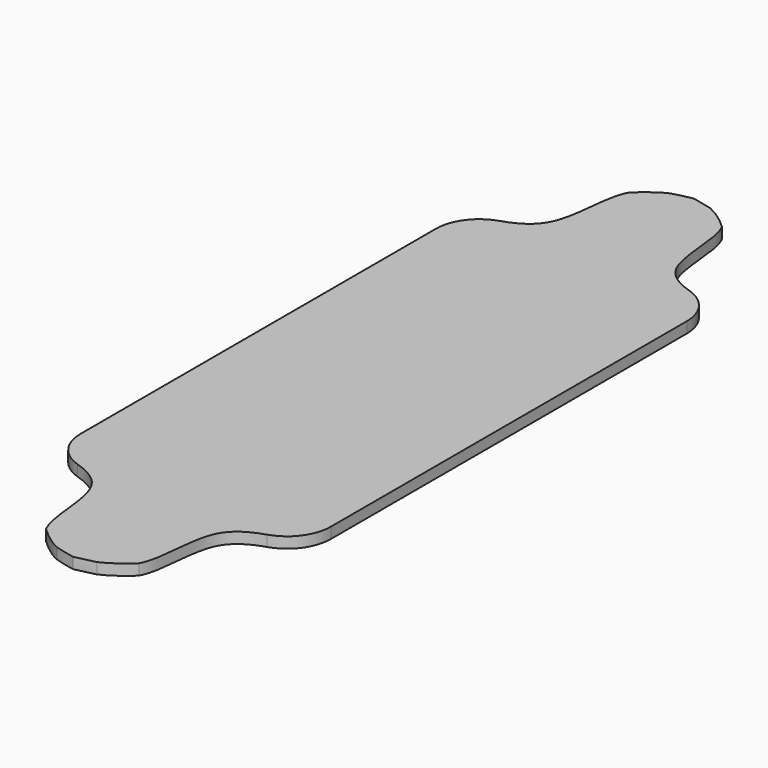
from build123d import *

# Parameters (mm, degrees)
F1_DEPTH = 12.7


with BuildPart() as f1:
    # F0 (on Top) → F1 (new body)
    with BuildSketch(Plane.XY):
        with BuildLine():
            ThreePointArc((-110.4837637806, 316.7394248911), (-136.2043355462, 298.3336731661), (-146.05, 268.2773526998))
            Line((-146.05, 268.2773526998), (-146.05, 9.588063746))
            Line((-146.05, 9.588063746), (-146.05, -249.1012252078))
            ThreePointArc((-146.05, -249.1012252078), (-136.2043355462, -279.1575456741), (-110.4837637806, -297.5632973991))
            add(Edge.make_bspline(
                [(-110.4837637806, -297.5632973991), (-94.860784263, -302.4742879689), (-57.1072930265, -324.0676799925), (-65.8721103771, -392.1664936895), (-53.3301600973, -415.0536892939)],
                knots=[0.1398188017, 0.1398188017, 0.1398188017, 0.1398188017, 0.3378332503, 0.7060967929, 0.7060967929, 0.7060967929, 0.7060967929], degree=3))
            add(Edge.make_bspline(
                [(-53.3301600973, -415.0536892939), (-43.4222747891, -424.5312613406), (-33.5237593389, -431.9645126432), (-23.5793357025, -436.6801723879)],
                knots=[0.315585682, 0.315585682, 0.315585682, 0.315585682, 0.4188058026, 0.4188058026, 0.4188058026, 0.4188058026], degree=3))
            add(Edge.make_bspline(
                [(-23.5793357025, -436.6801723879), (-16.1245534013, -439.0822491419), (-8.0667131746, -440.7699164851), (0, -442.436061634)],
                knots=[0.890706911, 0.890706911, 0.890706911, 0.890706911, 1, 1, 1, 1], degree=3))
            add(Edge.make_bspline(
                [(23.3104969467, -437.0379245215), (15.9110000088, -439.2626588651), (7.9555000044, -440.8493602496), (0, -442.436061634)],
                knots=[0.8942861566, 0.8942861566, 0.8942861566, 0.8942861566, 1, 1, 1, 1], degree=3))
            add(Edge.make_bspline(
                [(23.3104969467, -437.0379245215), (33.7267240631, -432.3463928571), (44.1921555141, -424.7783375797), (54.6469657862, -415.0536892939)],
                knots=[0.5793417515, 0.5793417515, 0.5793417515, 0.5793417515, 0.6852117386, 0.6852117386, 0.6852117386, 0.6852117386], degree=3))
            add(Edge.make_bspline(
                [(110.5151284503, -298.0400126134), (95.0043606387, -302.9267639788), (57.3861135501, -323.8166688749), (67.1141060278, -392.1349519934), (54.6469657862, -415.0536892939)],
                knots=[0.1399029022, 0.1399029022, 0.1399029022, 0.1399029022, 0.3365134028, 0.7037447992, 0.7037447992, 0.7037447992, 0.7037447992], degree=3))
            ThreePointArc((110.5151284503, -298.0400126134), (136.2140606219, -279.6308755872), (146.05, -249.587810874))
            Line((146.05, -249.587810874), (146.05, 9.588063746))
            Line((146.05, 9.588063746), (146.05, 268.763938366))
            ThreePointArc((146.05, 268.763938366), (136.2140606219, 298.8070030792), (110.5151284503, 317.2161401054))
            add(Edge.make_bspline(
                [(110.5151284503, 317.2161401054), (95.0043606387, 322.1028914708), (57.3861135501, 342.9927963669), (67.1141060278, 411.3110794854), (54.6469657862, 434.2298167859)],
                knots=[0.1399029022, 0.1399029022, 0.1399029022, 0.1399029022, 0.3365134028, 0.7037447992, 0.7037447992, 0.7037447992, 0.7037447992], degree=3))
            add(Edge.make_bspline(
                [(23.3104969467, 456.2140520135), (33.726724063, 451.522520349), (44.1921555141, 443.9544650717), (54.6469657862, 434.2298167859)],
                knots=[0.5793417515, 0.5793417515, 0.5793417515, 0.5793417515, 0.6852117386, 0.6852117386, 0.6852117386, 0.6852117386], degree=3))
            add(Edge.make_bspline(
                [(23.3104969467, 456.2140520135), (15.9110000088, 458.4387863571), (7.9555000044, 460.0254877415), (0, 461.612189126)],
                knots=[0.8942861566, 0.8942861566, 0.8942861566, 0.8942861566, 1, 1, 1, 1], degree=3))
            add(Edge.make_bspline(
                [(-23.5793357025, 455.8562998799), (-16.1245534013, 458.2583766338), (-8.0667131746, 459.9460439771), (0, 461.612189126)],
                knots=[0.890706911, 0.890706911, 0.890706911, 0.890706911, 1, 1, 1, 1], degree=3))
            add(Edge.make_bspline(
                [(-53.3301600973, 434.2298167859), (-43.4222747891, 443.7073888326), (-33.5237593389, 451.1406401352), (-23.5793357025, 455.8562998799)],
                knots=[0.315585682, 0.315585682, 0.315585682, 0.315585682, 0.4188058026, 0.4188058026, 0.4188058026, 0.4188058026], degree=3))
            add(Edge.make_bspline(
                [(-110.4837637806, 316.7394248911), (-94.860784263, 321.6504154608), (-57.1072930265, 343.2438074845), (-65.8721103771, 411.3426211815), (-53.3301600973, 434.2298167859)],
                knots=[0.1398188017, 0.1398188017, 0.1398188017, 0.1398188017, 0.3378332503, 0.7060967929, 0.7060967929, 0.7060967929, 0.7060967929], degree=3))
        make_face()
    extrude(amount=F1_DEPTH)


solid = f1.part
